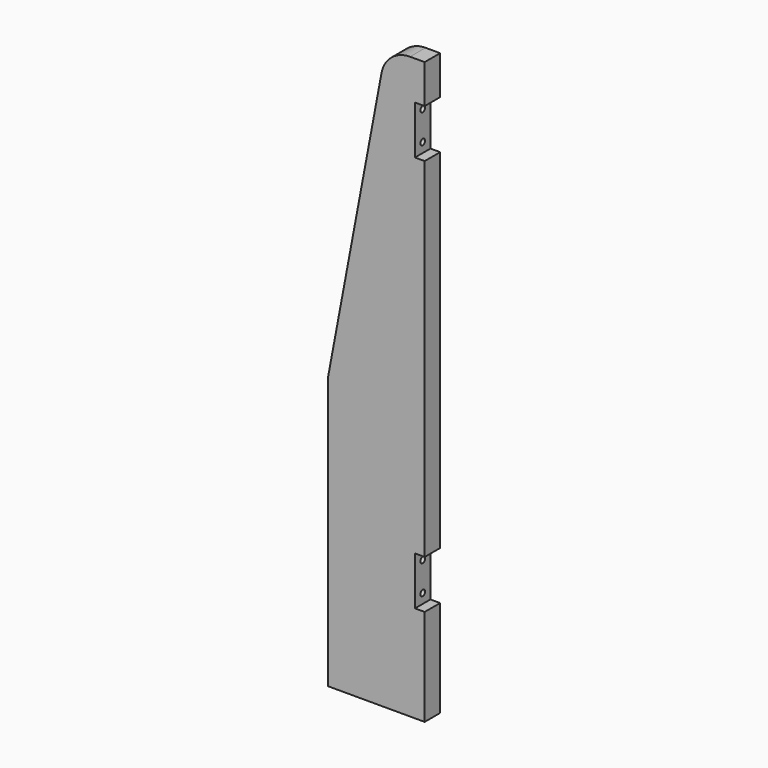
from build123d import *

# Parameters (mm, degrees)
F0_W     = 63.5
F0_H     = 12.7
F1_DEPTH = 381
F3_D     = 5.1054
F3_DEPTH = 19.05
F3_TIP   = 1.5338169022
F4_W     = 50.8
F4_H     = 31.75
F5_DEPTH = 6.35
F7_D     = 3.7973
F7_DEPTH = 19.05
F7_START = 6.35
F7_TIP   = 1.1408240143
F8_SIZE2 = 38.1
F8_SIZE  = 203.2
F9_R     = 19.05


with BuildPart() as f1:
    # F0 (on Top) → F1 (new body)
    with BuildSketch(Plane.XY):
        with Locations((-31.75, 6.35)):
            Rectangle(F0_W, F0_H)
    extrude(amount=F1_DEPTH)

    # F3
    with Locations(Plane(origin=(0, 0, 0), x_dir=(1, 0, 0), z_dir=(0, 0, -1))):
        with Locations((-15.875, -6.35), (-53.975, -6.35)):
            Hole(F3_D / 2, depth=F3_DEPTH)
            with Locations((0, 0, -(F3_DEPTH + F3_TIP / 2))):  # 118° drill point
                Cone(0, F3_D / 2, F3_TIP, mode=Mode.SUBTRACT)

    # F4 (on face) → F5 (cut)
    with BuildSketch(Plane.YZ):
        with Locations((25.4, 79.375)):
            Rectangle(F4_W, F4_H)
        with Locations((25.4, 339.725)):
            Rectangle(F4_W, F4_H)
    extrude(amount=-F5_DEPTH, mode=Mode.SUBTRACT)

    # F7
    # its depths count from where the whole tool has entered the part; down to there all is cleared
    with Locations(Plane.YZ.offset(-F7_START)):
        with Locations((6.35, 69.85), (6.35, 88.9), (6.35, 330.2), (6.35, 349.25)):
            Hole(F7_D / 2, depth=F7_DEPTH)
            with Locations((0, 0, -(F7_DEPTH + F7_TIP / 2))):  # 118° drill point
                Cone(0, F7_D / 2, F7_TIP, mode=Mode.SUBTRACT)

    # F8
    f8_edges = [f1.edges().sort_by_distance(p)[0] for p in [
        (-63.5, 6.35, 381),
    ]]
    f8_side = f1.faces().sort_by_distance((-63.5, 6.35, 190.5))[0]
    chamfer(f8_edges, length=F8_SIZE, length2=F8_SIZE2, reference=f8_side)

    # F9
    f9_edges = [f1.edges().sort_by_distance(p)[0] for p in [
        (-25.4, 6.35, 381),
        (-63.5, 6.35, 177.8),
    ]]
    fillet(f9_edges, radius=F9_R)


solid = f1.part
